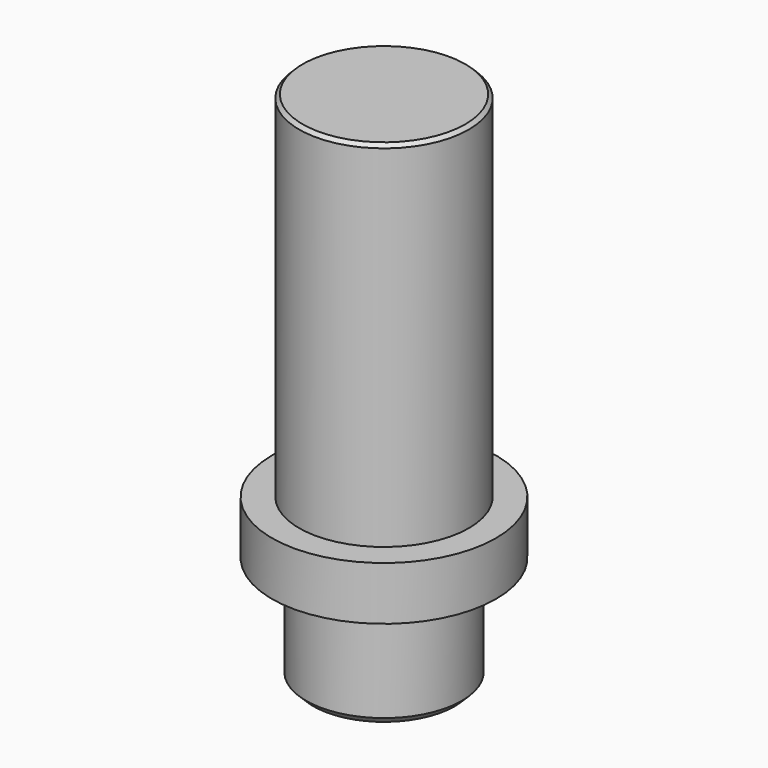
from build123d import *

# Parameters (mm, degrees)
CHAMFER_SIZE    = 0.1
CHAMFER001_SIZE = 0.05


with BuildPart() as part:
    # Sketch → Revolution (revolve)
    with BuildSketch(Plane.XZ):
        Polygon((0, 0), (1.105, 0), (1.105, 1.53), (1.59, 1.53), (1.59, 2.29), (1.205, 2.29), (1.205, 7.32), (0, 7.32), align=None)
    revolve(axis=Axis((0, 0, 0), (0, 0, 1)))

    # Chamfer
    chamfer_edges = [part.edges().sort_by_distance(p)[0] for p in [
        (-1.105, 0, 0),
    ]]
    chamfer(chamfer_edges, length=CHAMFER_SIZE)

    # Chamfer001
    chamfer001_edges = [part.edges().sort_by_distance(p)[0] for p in [
        (-1.205, 0, 7.32),
    ]]
    chamfer(chamfer001_edges, length=CHAMFER001_SIZE)


solid = part.part
